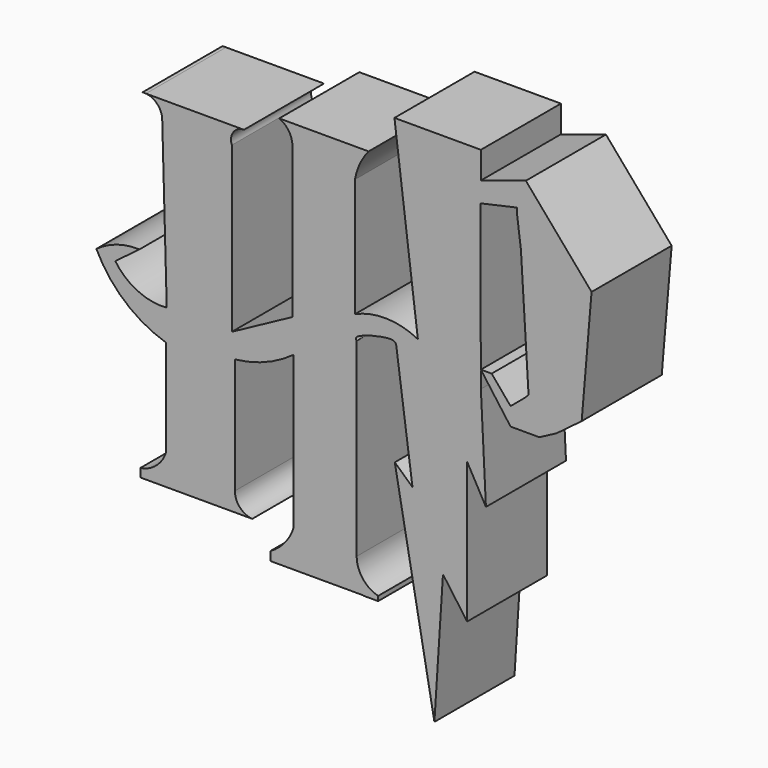
from build123d import *

# Parameters (mm, degrees)
F1_DEPTH = 16.002


with BuildPart() as f1:
    # F0 (on Front) → F1 (new body)
    with BuildSketch(Plane.XZ):
        with BuildLine():
            Line((27.0537436006, 38.5659709574), (13.239065185, 38.5659709574))
            Line((13.239065185, 38.5659709574), (16.9805381445, 8.6341723801))
            ThreePointArc((16.9805381445, 8.6341723801), (11.976038314, 9.9083912486), (6.9146049209, 8.8834306225))
            Line((6.9146049209, 8.8834306225), (6.9146049209, 27.8372149915))
            ThreePointArc((6.9146049209, 27.8372149915), (7.7093409409, 30.3118111922), (9.1052437201, 32.5042270124))
            Line((9.1052437201, 32.5042270124), (-5.1815276965, 32.5042270124))
            ThreePointArc((-5.1815276965, 32.5042270124), (-3.6530011364, 31.2216165027), (-3.0807298608, 29.3100755662))
            Line((-3.0807298608, 29.3100755662), (-3.0807298608, 5.2295997739))
            Line((-3.0807298608, 5.2295997739), (-12.7613237128, 0))
            Line((-12.7613237128, 0), (-12.7613237128, 26.2848902494))
            ThreePointArc((-12.7613237128, 26.2848902494), (-12.5203891975, 28.1823021324), (-10.825204663, 29.0680620819))
            Line((-10.825204663, 29.0680620819), (-26.4943803815, 29.0680620819))
            ThreePointArc((-26.4943803815, 29.0680620819), (-24.6666219188, 28.1691035613), (-23.8929504026, 26.2848902494))
            Line((-23.8929504026, 26.2848902494), (-23.1679603457, 0))
            ThreePointArc((-23.1679603457, 0), (-27.8027720242, 0.8505263045), (-31.3964635134, 3.8985183928))
            Line((-31.3964635134, 3.8985183928), (-27.5242272764, 6.802696269))
            ThreePointArc((-27.5242272764, 6.802696269), (-31.1560989075, 6.2936388165), (-34.4216488302, 4.6245628037))
            ThreePointArc((-34.4216488302, 4.6245628037), (-29.847002669, -1.310113717), (-23.2889689505, -4.9350229092))
            Line((-23.2889689505, -4.9350229092), (-23.2889689505, -20.4239729792))
            ThreePointArc((-23.2889689505, -20.4239729792), (-24.8529476491, -22.7567525796), (-27.4032205343, -23.9331871271))
            Line((-27.4032205343, -23.9331871271), (-27.4032205343, -25.264268741))
            Line((-27.4032205343, -25.264268741), (-9.4941230491, -25.264268741))
            ThreePointArc((-9.4941230491, -25.264268741), (-11.4756575483, -24.2944292872), (-12.2772939503, -22.2390834242))
            Line((-12.2772939503, -22.2390834242), (-12.2772939503, -3.7249489687))
            ThreePointArc((-12.2772939503, -3.7249489687), (-7.3231039856, -2.488739858), (-2.8645857237, 0))
            Line((-2.8645857237, 0), (-2.8645857237, -24.3136435747))
            ThreePointArc((-2.8645857237, -24.3136435747), (-4.2737546698, -26.9123144535), (-6.5438877791, -28.8058146834))
            Line((-6.5438877791, -28.8058146834), (-6.5438877791, -30.2604231983))
            Line((-6.5438877791, -30.2604231983), (8.258885704, -30.2604231983))
            Line((8.258885704, -30.2604231983), (8.258885704, -30.3032044321))
            Line((8.258885704, -30.3032044321), (10.6323713044, -30.3032044321))
            Line((10.6323713044, -30.3032044321), (10.6323713044, -29.5627774231))
            ThreePointArc((10.6323713044, -29.5627774231), (8.1561893699, -27.9223985955), (7.1977237239, -25.111053139))
            Line((7.1977237239, -25.111053139), (7.1977237239, 5.2052573301))
            add(Edge.make_bspline(
                [(13.5162426159, 6.7069013603), (13.4249388226, 6.9233671199), (13.0866426948, 7.7254096812), (6.6779102395, 6.1144842139), (7.0993341098, 5.3773546013), (7.1977237239, 5.2052573301)],
                knots=[0, 0, 0, 0, 0.2207939268, 0.8180791592, 1, 1, 1, 1], degree=3))
            Line((13.5162426159, 6.7069013603), (16.1170735953, -12.4609256162))
            Line((16.1170735953, -12.4609256162), (13.293421827, -9.8939705639))
            Line((13.293421827, -9.8939705639), (19.6252446619, -44.3767309188))
            Line((19.6252446619, -44.3767309188), (20.994286984, -23.1565702706))
            Line((20.994286984, -23.1565702706), (24.860024452, -28.5471752285))
            Line((24.860024452, -28.5471752285), (24.860024452, -6.0454183257))
            Line((24.860024452, -6.0454183257), (27.8617888687, -11.4384172483))
            Line((27.8617888687, -11.4384172483), (27.0537436006, 4.8926970922))
            Line((27.0537436006, 4.8926970922), (26.9817914811, 31.0110691936))
            Line((26.9817914811, 31.0110691936), (32.8098572788, 32.3061943055))
            Line((32.8098572788, 32.3061943055), (32.8098572788, 31.5866805614))
            Line((32.8098572788, 31.5866805614), (33.4574207661, 26.6220308841))
            Line((33.4574207661, 26.6220308841), (34.6805937586, 6.5475800076))
            Line((34.6805937586, 6.5475800076), (34.1049842534, 5.9633367532))
            Line((34.1049842534, 5.9633367532), (31.8025387821, 4.0292809718))
            Line((31.8025387821, 4.0292809718), (28.7805758414, 7.626852952))
            Line((28.7805758414, 7.626852952), (27.0537436006, 7.626852952))
            Line((27.0537436006, 7.626852952), (31.8025387821, 1.151223085))
            Line((31.8025387821, 1.151223085), (36.4074297247, 1.151223085))
            Line((36.4074297247, 1.151223085), (39.1415841875, 2.5902520866))
            Line((39.1415841875, 2.5902520866), (43.1708618996, 5.6122122333))
            Line((43.1708618996, 5.6122122333), (44.7537936268, 24.3195872755))
            Line((44.7537936268, 24.3195872755), (34.2488847671, 36.5513302387))
            Line((34.2488847671, 36.5513302387), (27.0537436006, 34.2488847674))
            Line((27.0537436006, 34.2488847674), (27.0537436006, 38.5659709574))
        make_face()
    extrude(amount=F1_DEPTH)


with BuildPart() as f1b:
    # F0 (on Front) → F1, piece 2 (new body)
    with BuildSketch(Plane.XZ):
        with BuildLine():
            Line((-27.0401984453, 29.0680620819), (-26.4943803815, 29.0680620819))
            ThreePointArc((-26.4943803815, 29.0680620819), (-26.7672894134, 29.0810423617), (-27.0401984453, 29.0680620819))
        make_face()
    extrude(amount=F1_DEPTH)


solid = Compound([f1.part, f1b.part])
